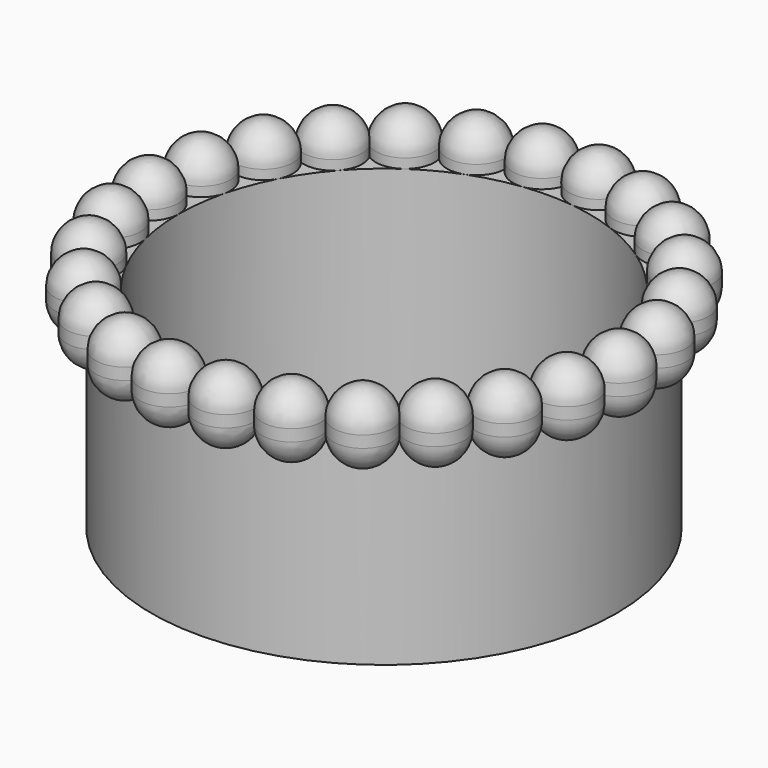
from build123d import *

# Parameters (mm, degrees)
POLARPATTERN_COUNT = 26
SKETCH007_W        = 1.15
SKETCH007_H        = 8.9


with BuildPart() as part:
    # Sketch → Revolution (revolve)
    with BuildSketch(Plane.XZ):
        with BuildLine():
            Line((11.25, 1.25), (11.25, 1.75))
            ThreePointArc((11.25, 1.75), (10.883883, 2.633883), (10, 3))
            Line((10, 3), (10, 0))
            ThreePointArc((10, 0), (10.883883, 0.366117), (11.25, 1.25))
        make_face()
    revolution = revolve(axis=Axis((10, 0, 3), (0, 0, -1)))

    # PolarPattern: Revolution ×26 about axis
    polarpattern_axis = Axis((0, 0, 0), (0, 0, 1))
    for i in range(1, POLARPATTERN_COUNT):
        add(revolution.rotate(polarpattern_axis, i * 360 / POLARPATTERN_COUNT))

    # Sketch007 → Revolution003 (revolve)
    with BuildSketch(Plane.XZ):
        with Locations((9.325, -3.107551)):
            Rectangle(SKETCH007_W, SKETCH007_H)
    revolve(axis=Axis((0, 0, 0), (0, 0, 1)))


solid = part.part
